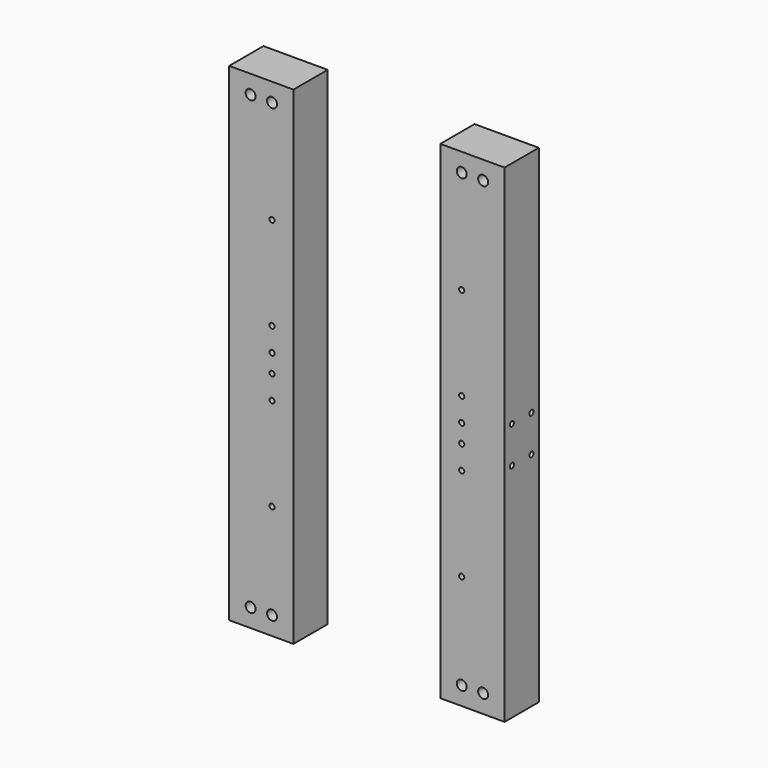
from build123d import *

# Parameters (mm, degrees)
F0_W     = 133.35
F0_H     = 88.9
F1_DEPTH = 506.4125
F3_D     = 20.6375
F4_D     = 10.71626
F4_DEPTH = 50.8
F4_TIP   = 3.2194893086
F6_D     = 10.71626
F6_DEPTH = 50.8
F6_TIP   = 3.2194893086
F8_D     = 10.71626
F8_DEPTH = 50.8
F8_TIP   = 3.2194893086


with BuildPart() as f1:
    # F0 (on Top) → F1 (new body, symmetric)
    with BuildSketch(Plane.XY):
        Rectangle(F0_W, F0_H)
    extrude(amount=F1_DEPTH, both=True)

    # F3 (through all)
    with Locations(Plane.XZ.offset(44.45)):
        with Locations((-22.225, 468.3125), (22.225, 468.3125), (22.225, -468.3125), (-22.225, -468.3125)):
            Hole(F3_D / 2)

    # F4
    with Locations(Plane.XZ.offset(44.45)):
        with Locations((22.225, 253.9365), (22.225, 60.3885), (22.225, -76.2635), (22.225, -269.8115)):
            Hole(F4_D / 2, depth=F4_DEPTH)
            with Locations((0, 0, -(F4_DEPTH + F4_TIP / 2))):  # 118° drill point
                Cone(0, F4_D / 2, F4_TIP, mode=Mode.SUBTRACT)

    # F6
    with Locations(Plane.XZ.offset(44.45)):
        with Locations((22.225, 11.1125), (22.225, -26.9875)):
            Hole(F6_D / 2, depth=F6_DEPTH)
            with Locations((0, 0, -(F6_DEPTH + F6_TIP / 2))):  # 118° drill point
                Cone(0, F6_D / 2, F6_TIP, mode=Mode.SUBTRACT)

    # F8
    with Locations(Plane(origin=(-66.675, 0, 0), x_dir=(0, -1, 0), z_dir=(-1, 0, 0))):
        with Locations((-25.4, 30.1625), (25.4, 30.1625), (-25.4, -46.0375), (25.4, -46.0375)):
            Hole(F8_D / 2, depth=F8_DEPTH)
            with Locations((0, 0, -(F8_DEPTH + F8_TIP / 2))):  # 118° drill point
                Cone(0, F8_D / 2, F8_TIP, mode=Mode.SUBTRACT)


with BuildPart() as f10_1:
    # F10: instance of F1
    add(f1.part.mirror(Plane.YZ.offset(219.075)))


solid = Compound([f1.part, f10_1.part])
